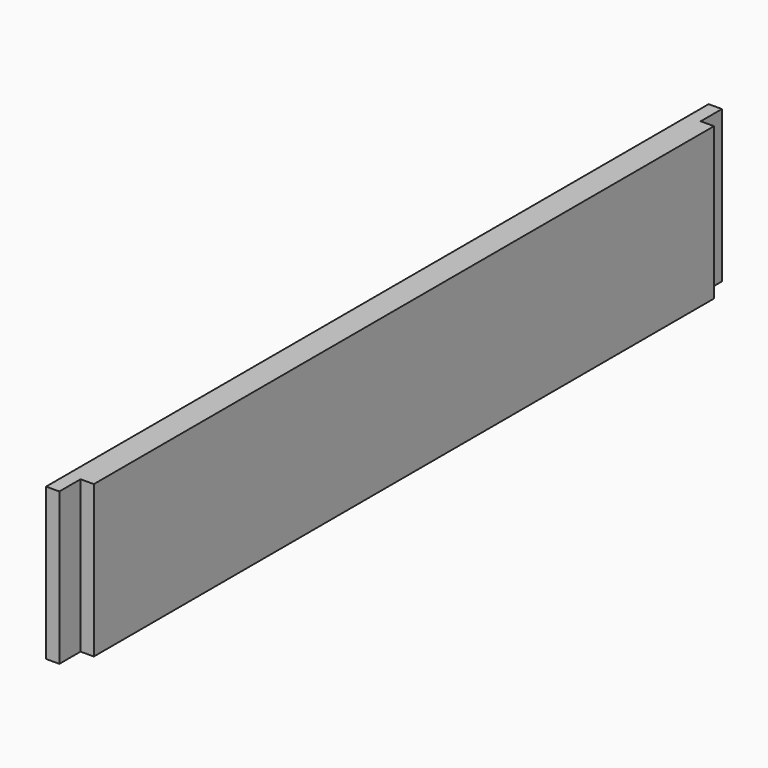
from build123d import *

# Parameters (mm, degrees)
F0_W     = 526
F0_H     = 103
F1_DEPTH = 18
F0_W_2   = 18
F2_DEPTH = 9


with BuildPart() as f1:
    # F0 (on Right) → F1 (new body)
    with BuildSketch(Plane.YZ):
        with Locations((281, 51.5)):
            Rectangle(F0_W, F0_H)
    extrude(amount=F1_DEPTH)

    # F0 (on Right) → F2 (join)
    with BuildSketch(Plane.YZ):
        with Locations((9, 51.5)):
            Rectangle(F0_W_2, F0_H)
        with Locations((553, 51.5)):
            Rectangle(F0_W_2, F0_H)
    extrude(amount=F2_DEPTH)


solid = f1.part
